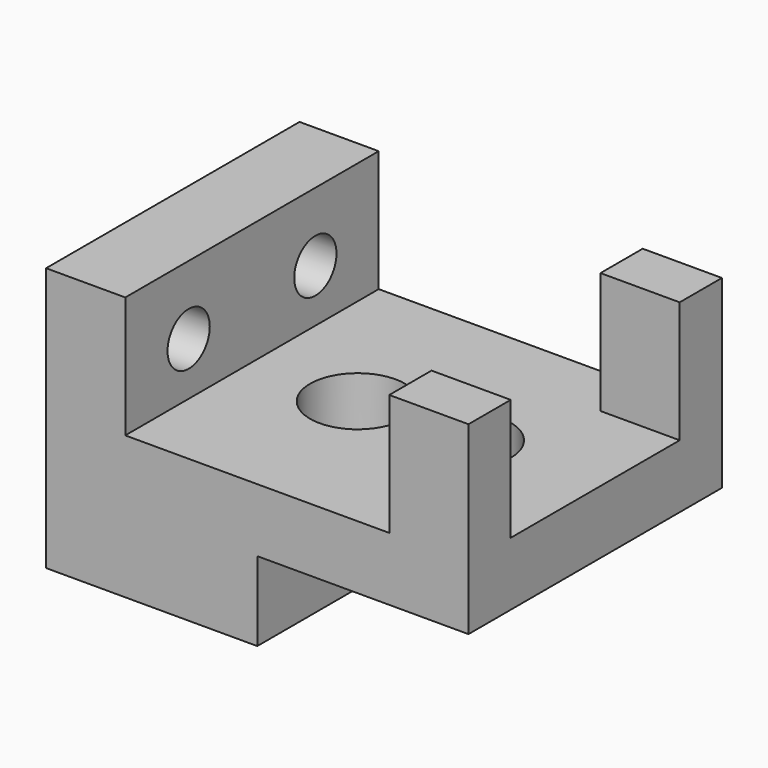
from build123d import *

# Parameters (mm, degrees)
F1_DEPTH = 30
F2_W     = 15
F2_H     = 40
F3_DEPTH = 23
F4_R     = 5
F5_DEPTH = 15
F6_R     = 9
F7_DEPTH = 27


with BuildPart() as f1:
    # F0 (on Front) → F1 (new body, symmetric)
    with BuildSketch(Plane.XZ):
        Polygon((-25, 35), (-40, 35), (-40, -15), (0, -15), (0, 0), (40, 0), (40, 35), (25, 35), (25, 12), (-25, 12), align=None)
    extrude(amount=F1_DEPTH, both=True)

    # F2 (on face) → F3 (cut, through all)
    with BuildSketch(Plane.XY.offset(35)):
        with Locations((32.5, 0)):
            Rectangle(F2_W, F2_H)
    extrude(amount=-F3_DEPTH, mode=Mode.SUBTRACT)

    # F4 (on face) → F5 (cut, through all)
    with BuildSketch(Plane.YZ.offset(-25)):
        with Locations((-15, 22)):
            Circle(F4_R)
        with Locations((15, 22)):
            Circle(F4_R)
    extrude(amount=-F5_DEPTH, mode=Mode.SUBTRACT)

    # F6 (on face) → F7 (cut, through all)
    with BuildSketch(Plane.XY.offset(12)):
        with Locations((-5, 0)):
            Circle(F6_R)
        with Locations((15, 0)):
            Circle(F6_R)
    extrude(amount=-F7_DEPTH, mode=Mode.SUBTRACT)


solid = f1.part
